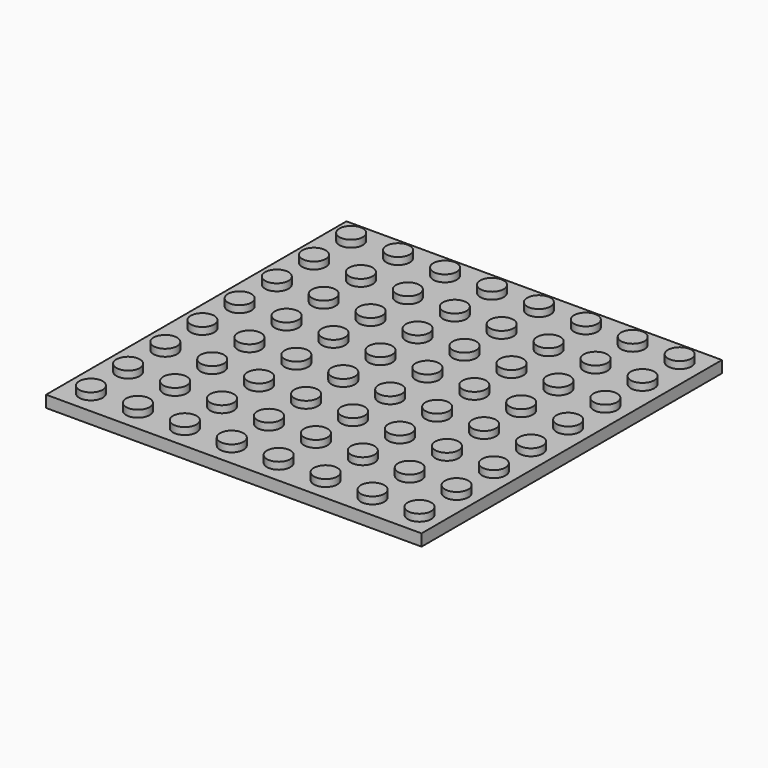
from build123d import *

# Parameters (mm, degrees)
F0_W     = 203.2
F0_H     = 203.2
F1_DEPTH = 6.35
F2_R     = 6.35
F3_DEPTH = 3.81


with BuildPart() as f1:
    # F0 (on Top) → F1 (new body)
    with BuildSketch(Plane.XY):
        Rectangle(F0_W, F0_H)
    extrude(amount=F1_DEPTH)

    # F2 (on face) → F3 (join)
    with BuildSketch(Plane.XY.offset(6.35)):
        with Locations((-88.9, 88.9)):
            Circle(F2_R)
        with Locations((-88.696807, 63.500813)):
            Circle(F2_R)
        with Locations((-88.493613, 38.101626)):
            Circle(F2_R)
        with Locations((-88.29042, 12.702438)):
            Circle(F2_R)
        with Locations((-88.087226, -12.696749)):
            Circle(F2_R)
        with Locations((-87.884033, -38.095936)):
            Circle(F2_R)
        with Locations((-87.680839, -63.495123)):
            Circle(F2_R)
        with Locations((-87.477646, -88.894311)):
            Circle(F2_R)
        with Locations((-63.5, 88.9)):
            Circle(F2_R)
        with Locations((-63.296807, 63.500813)):
            Circle(F2_R)
        with Locations((-63.093613, 38.101626)):
            Circle(F2_R)
        with Locations((-62.89042, 12.702438)):
            Circle(F2_R)
        with Locations((-62.687226, -12.696749)):
            Circle(F2_R)
        with Locations((-62.484033, -38.095936)):
            Circle(F2_R)
        with Locations((-62.280839, -63.495123)):
            Circle(F2_R)
        with Locations((-62.077646, -88.894311)):
            Circle(F2_R)
        with Locations((-38.1, 88.9)):
            Circle(F2_R)
        with Locations((-37.896807, 63.500813)):
            Circle(F2_R)
        with Locations((-37.693613, 38.101626)):
            Circle(F2_R)
        with Locations((-37.49042, 12.702438)):
            Circle(F2_R)
        with Locations((-37.287226, -12.696749)):
            Circle(F2_R)
        with Locations((-37.084033, -38.095936)):
            Circle(F2_R)
        with Locations((-36.880839, -63.495123)):
            Circle(F2_R)
        with Locations((-36.677646, -88.894311)):
            Circle(F2_R)
        with Locations((-12.7, 88.9)):
            Circle(F2_R)
        with Locations((-12.496807, 63.500813)):
            Circle(F2_R)
        with Locations((-12.293613, 38.101626)):
            Circle(F2_R)
        with Locations((-12.09042, 12.702438)):
            Circle(F2_R)
        with Locations((-11.887226, -12.696749)):
            Circle(F2_R)
        with Locations((-11.684033, -38.095936)):
            Circle(F2_R)
        with Locations((-11.480839, -63.495123)):
            Circle(F2_R)
        with Locations((-11.277646, -88.894311)):
            Circle(F2_R)
        with Locations((12.7, 88.9)):
            Circle(F2_R)
        with Locations((12.903193, 63.500813)):
            Circle(F2_R)
        with Locations((13.106387, 38.101626)):
            Circle(F2_R)
        with Locations((13.30958, 12.702438)):
            Circle(F2_R)
        with Locations((13.512774, -12.696749)):
            Circle(F2_R)
        with Locations((13.715967, -38.095936)):
            Circle(F2_R)
        with Locations((13.919161, -63.495123)):
            Circle(F2_R)
        with Locations((14.122354, -88.894311)):
            Circle(F2_R)
        with Locations((38.1, 88.9)):
            Circle(F2_R)
        with Locations((38.303193, 63.500813)):
            Circle(F2_R)
        with Locations((38.506387, 38.101626)):
            Circle(F2_R)
        with Locations((38.70958, 12.702438)):
            Circle(F2_R)
        with Locations((38.912774, -12.696749)):
            Circle(F2_R)
        with Locations((39.115967, -38.095936)):
            Circle(F2_R)
        with Locations((39.319161, -63.495123)):
            Circle(F2_R)
        with Locations((39.522354, -88.894311)):
            Circle(F2_R)
        with Locations((63.5, 88.9)):
            Circle(F2_R)
        with Locations((63.703193, 63.500813)):
            Circle(F2_R)
        with Locations((63.906387, 38.101626)):
            Circle(F2_R)
        with Locations((64.10958, 12.702438)):
            Circle(F2_R)
        with Locations((64.312774, -12.696749)):
            Circle(F2_R)
        with Locations((64.515967, -38.095936)):
            Circle(F2_R)
        with Locations((64.719161, -63.495123)):
            Circle(F2_R)
        with Locations((64.922354, -88.894311)):
            Circle(F2_R)
        with Locations((88.9, 88.9)):
            Circle(F2_R)
        with Locations((89.103193, 63.500813)):
            Circle(F2_R)
        with Locations((89.306387, 38.101626)):
            Circle(F2_R)
        with Locations((89.50958, 12.702438)):
            Circle(F2_R)
        with Locations((89.712774, -12.696749)):
            Circle(F2_R)
        with Locations((89.915967, -38.095936)):
            Circle(F2_R)
        with Locations((90.119161, -63.495123)):
            Circle(F2_R)
        with Locations((90.322354, -88.894311)):
            Circle(F2_R)
    extrude(amount=F3_DEPTH)


solid = f1.part
